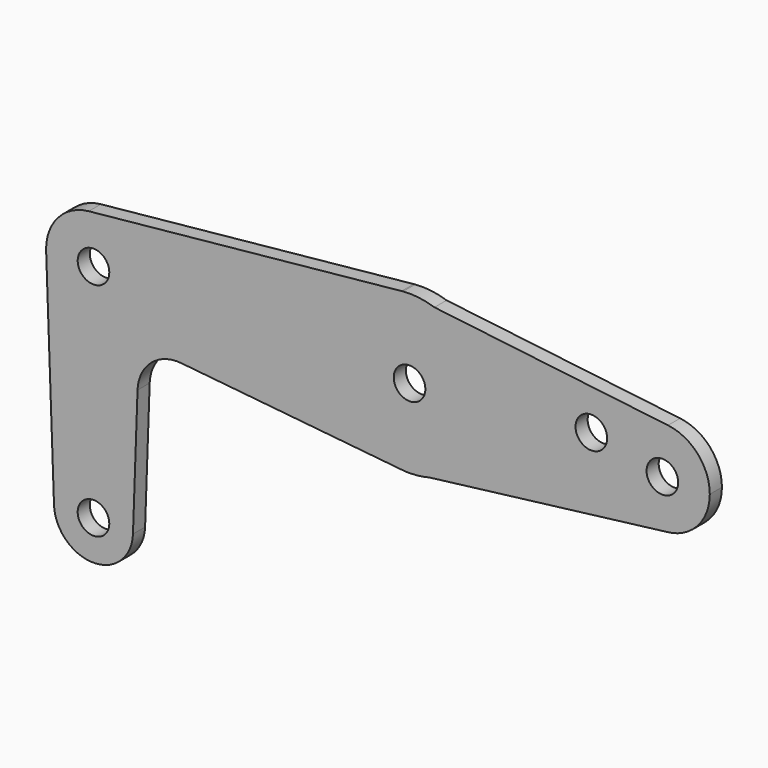
from build123d import *

# Parameters (mm, degrees)
F0_R     = 3.175
F1_DEPTH = 3.048


with BuildPart() as f1:
    # F0 (on Front) → F1 (new body)
    with BuildSketch(Plane.XZ):
        with BuildLine():
            ThreePointArc((115.030709, -9.496931), (121.288763, -6.471693), (123.825, 0))
            ThreePointArc((123.825, 0), (121.42366, 6.322902), (115.430441, 9.457681))
            ThreePointArc((115.430441, 9.457681), (104.777117, 0.200827), (115.030709, -9.496931))
        make_face()
        with Locations((114.3, 0)):
            Circle(F0_R, mode=Mode.SUBTRACT)
        with BuildLine():
            ThreePointArc((115.030709, -9.496931), (104.777117, 0.200827), (115.430441, 9.457681))
            Line((115.430441, 9.457681), (68.499702, 15.067136))
            ThreePointArc((68.499702, 15.067136), (76.372177, 9.291), (79.375, 0))
            ThreePointArc((79.375, 0), (76.069404, -9.696685), (67.529243, -15.355156))
            Line((67.529243, -15.355156), (115.030709, -9.496931))
        make_face()
        with Locations((100.0252, 3.175)):
            Circle(F0_R, mode=Mode.SUBTRACT)
        with BuildLine():
            Line((62.192246, 15.821043), (68.499702, 15.067136))
            ThreePointArc((68.499702, 15.067136), (65.384069, 15.762801), (62.192246, 15.821043))
        make_face()
        with BuildLine():
            ThreePointArc((79.375, 0), (76.372177, 9.291), (68.499702, 15.067136))
            Line((68.499702, 15.067136), (62.192246, 15.821043))
            ThreePointArc((62.192246, 15.821043), (62.052316, 15.808853), (61.9125, 15.795426))
            ThreePointArc((61.9125, 15.795426), (47.625, 0), (61.9125, -15.795426))
            ThreePointArc((61.9125, -15.795426), (62.616458, -15.850394), (63.322164, -15.874004))
            Line((63.322164, -15.874004), (67.529243, -15.355156))
            ThreePointArc((67.529243, -15.355156), (76.069404, -9.696685), (79.375, 0))
        make_face()
        with Locations((63.5, 0)):
            Circle(F0_R, mode=Mode.SUBTRACT)
        with BuildLine():
            ThreePointArc((63.322164, -15.874004), (65.443099, -15.755634), (67.529243, -15.355156))
            Line((67.529243, -15.355156), (63.322164, -15.874004))
        make_face()
        with BuildLine():
            ThreePointArc((61.9125, -15.795426), (47.625, 0), (61.9125, 15.795426))
            Line((61.9125, 15.795426), (-0.9525, 9.477255))
            ThreePointArc((-0.9525, 9.477255), (6.389564, 7.063929), (9.525, 0))
            ThreePointArc((9.525, 0), (0.338886, -9.51897), (-9.500886, -0.677344))
            Line((-9.500886, -0.677344), (-7.932475, -44.732405))
            ThreePointArc((-7.932475, -44.732405), (-0.141225, -36.513756), (7.9375, -44.45))
            ThreePointArc((7.9375, -44.45), (7.936244, -44.591225), (7.932475, -44.732405))
            Line((7.932475, -44.732405), (8.849706, -18.968328))
            ThreePointArc((8.849706, -18.968328), (11.567463, -13.261204), (17.589892, -11.340836))
            Line((17.589892, -11.340836), (61.9125, -15.795426))
        make_face()
        with BuildLine():
            ThreePointArc((9.525, 0), (6.389564, 7.063929), (-0.9525, 9.477255))
            ThreePointArc((-0.9525, 9.477255), (-7.063929, 6.389564), (-9.525, 0))
            Line((-9.525, 0), (-9.500886, -0.677344))
            ThreePointArc((-9.500886, -0.677344), (0.338886, -9.51897), (9.525, 0))
        make_face()
        Circle(F0_R, mode=Mode.SUBTRACT)
        with BuildLine():
            Line((-9.500886, -0.677344), (-9.525, 0))
            ThreePointArc((-9.525, 0), (-9.51897, -0.338886), (-9.500886, -0.677344))
        make_face()
        with BuildLine():
            ThreePointArc((-7.932475, -44.732405), (0, -52.3875), (7.932475, -44.732405))
            ThreePointArc((7.932475, -44.732405), (7.936244, -44.591225), (7.9375, -44.45))
            ThreePointArc((7.9375, -44.45), (-0.141225, -36.513756), (-7.932475, -44.732405))
        make_face()
        with Locations((0, -44.45)):
            Circle(F0_R, mode=Mode.SUBTRACT)
    extrude(amount=F1_DEPTH)


solid = f1.part
